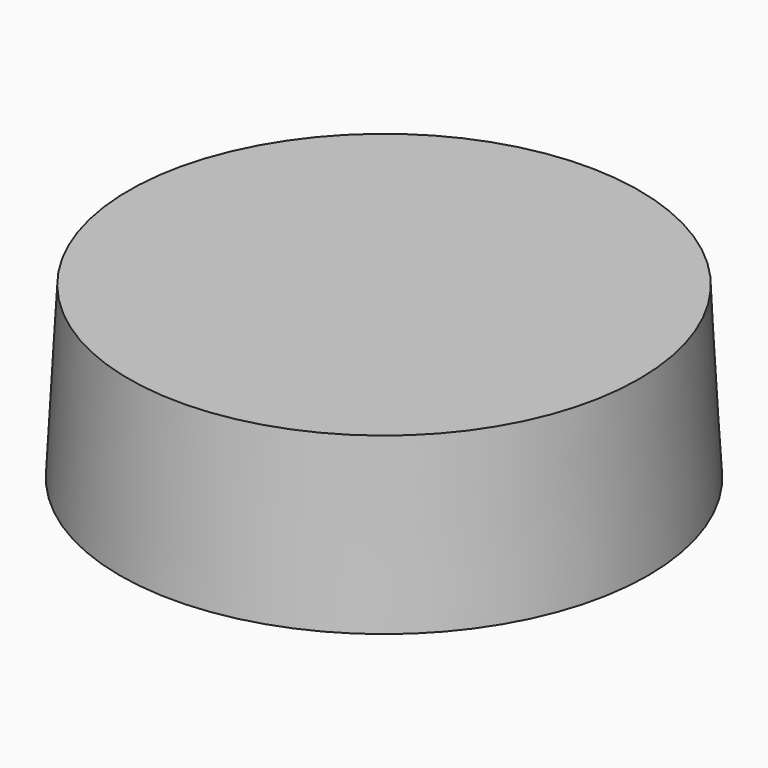
from build123d import *

# Parameters (mm, degrees)
F0_R     = 15
F1_DEPTH = 10
F1_TAPER = -3


with BuildPart() as f1:
    # F0 (on Top) → F1 (new body)
    with BuildSketch(Plane.XY):
        with Locations((0, 12.1243912622)):
            Circle(F0_R)
    extrude(amount=-F1_DEPTH, taper=F1_TAPER)


solid = f1.part
